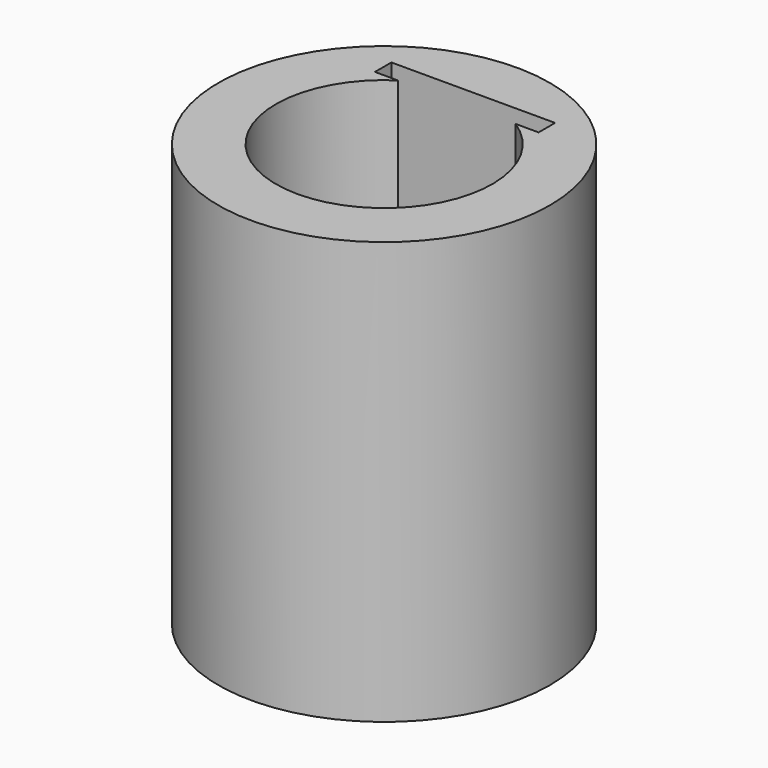
from build123d import *

# Parameters (mm, degrees)
CYLINDER010_R     = 3.14
CYLINDER010_DEPTH = 8
CYLINDER011_R     = 2.05
CYLINDER011_DEPTH = 14
BOX005_W          = 3.1
BOX005_H          = 0.39
BOX005_DEPTH      = 8.2


with BuildPart() as part:
    # Cylinder010 → Cylinder010 (join)
    with BuildSketch(Plane.XY.offset(4)):
        Circle(CYLINDER010_R)
    extrude(amount=CYLINDER010_DEPTH)

    # Cylinder011 → Cylinder011 (cut)
    with BuildSketch(Plane.XY.offset(3)):
        Circle(CYLINDER011_R)
    extrude(amount=CYLINDER011_DEPTH, mode=Mode.SUBTRACT)

    # Box005 → Box005 (cut)
    with BuildSketch(Plane(origin=(-1.55, 1.72, 3.9), x_dir=(1, 0, 0), z_dir=(0, 0, 1))):
        with Locations((1.55, 0.195)):
            Rectangle(BOX005_W, BOX005_H)
    extrude(amount=BOX005_DEPTH, mode=Mode.SUBTRACT)


solid = part.part
